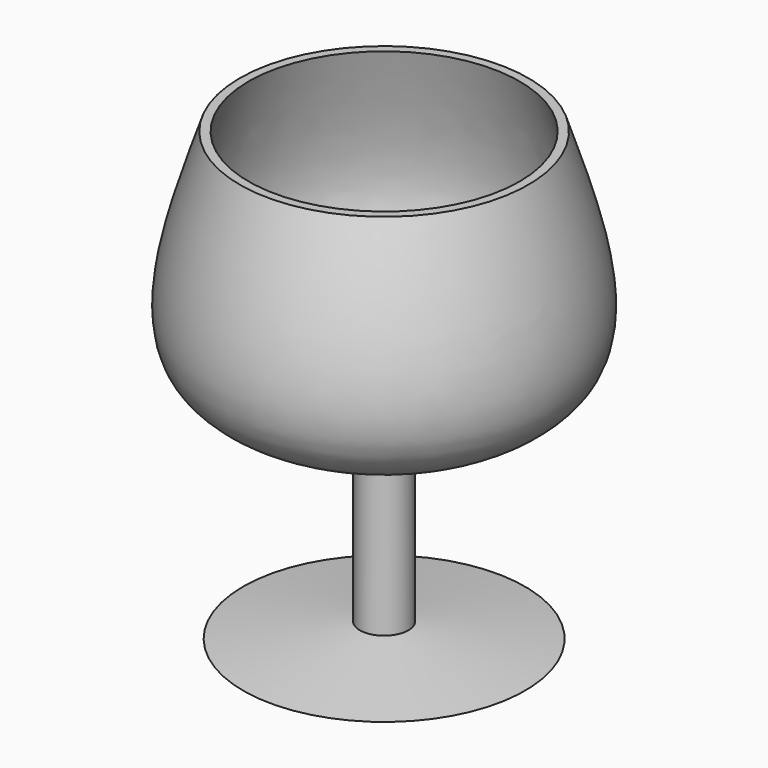
from build123d import *


with BuildPart() as f1:
    # F0 (on Front) → F1 (revolve)
    with BuildSketch(Plane.XZ):
        with BuildLine():
            Line((0, -104.9089462908), (0, -29.7739207745))
            add(Edge.make_bspline(
                [(-53.2417371869, 70.0215771794), (-60.1393398092, 47.2825064775), (-72.1044102845, 7.8377024797), (-43.1262130746, -21.7710816776), (-14.9754626714, -26.9949562047), (0, -29.7739207745)],
                knots=[0, 0, 0, 0, 0.3891471779, 0.6750422811, 1, 1, 1, 1], degree=3))
            Line((-53.2417371869, 70.0215771794), (-56.7001663148, 70.0215771794))
            add(Edge.make_bspline(
                [(-56.7001663148, 70.0215771794), (-66.7843970001, 39.9491952344), (-85.9693021427, -17.2624863537), (-34.1274701603, -29.2500372469), (-9.535446763, -34.9365286529)],
                knots=[0, 0, 0, 0, 0.5256335963, 1, 1, 1, 1], degree=3))
            Line((-9.535446763, -34.9365286529), (-9.535446763, -99.3728339672))
            Line((-9.535446763, -99.3728339672), (-55.3715825081, -105.3514629602))
            Line((-55.3715825081, -105.3514629602), (0, -104.9089462908))
        make_face()
    revolve(axis=Axis((0, 0, -3.3089462908), (0, 0, -1)))


solid = f1.part
